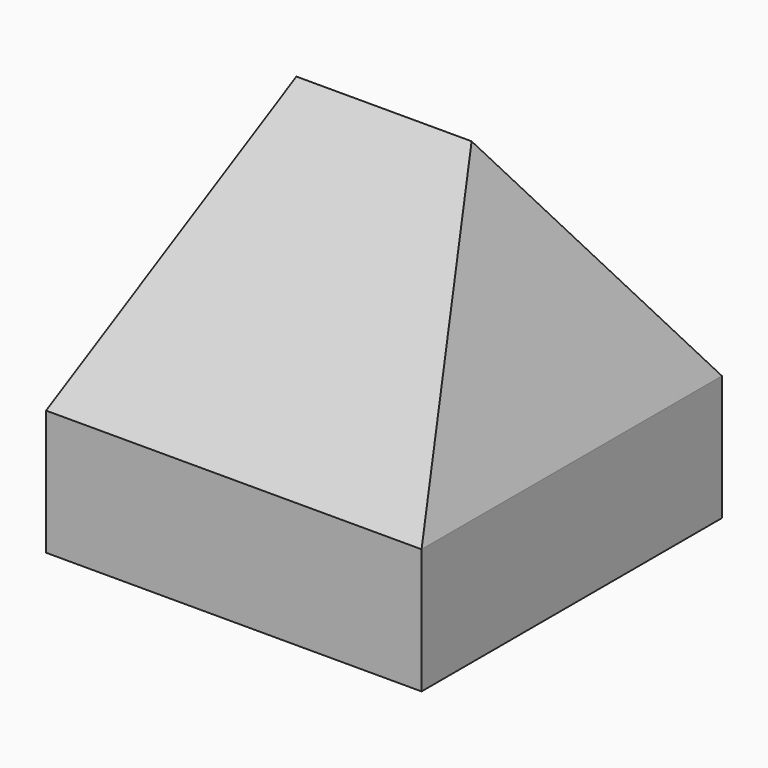
from build123d import *

# Parameters (mm, degrees)
F1_DEPTH = 30
F3_DEPTH = 30.001


with BuildPart() as f1:
    # F0 (on Right) → F1 (new body)
    with BuildSketch(Plane.YZ):
        Polygon((0, 10), (0, 0), (30, 0), (30, 10), (15, 30), align=None)
    extrude(amount=F1_DEPTH)

    # F2 (on face) → F3 (cut, through all)
    with BuildSketch(Plane.XZ):
        Polygon((30, 10), (30, 30), (22, 30), align=None)
        Polygon((0, 30), (0, 10), (8, 30), align=None)
    extrude(amount=-F3_DEPTH, mode=Mode.SUBTRACT)


solid = f1.part
